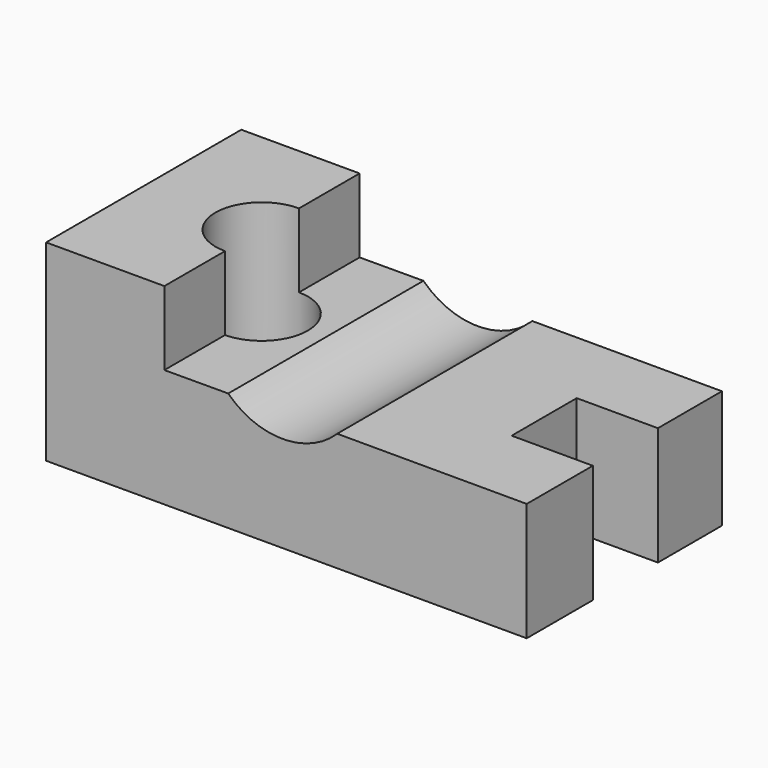
from build123d import *

# Parameters (mm, degrees)
F1_DEPTH = 330
F2_R     = 125
F2_W     = 220
F2_H     = 220
F3_DEPTH = 500


with BuildPart() as f1:
    # F0 (on Front) → F1 (new body, symmetric)
    with BuildSketch(Plane.XZ):
        with BuildLine():
            Line((-650, -160), (650, -160))
            Line((650, -160), (650, 160))
            Line((650, 160), (137.357155, 160.380921))
            ThreePointArc((137.357155, 160.380921), (-10, 100), (-157.357155, 160.380921))
            Line((-157.357155, 160.380921), (-330, 160))
            Line((-330, 160), (-330, 360))
            Line((-330, 360), (-650, 360))
            Line((-650, 360), (-650, -160))
        make_face()
    extrude(amount=F1_DEPTH, both=True)

    # F2 (on Top) → F3 (cut, symmetric)
    with BuildSketch(Plane.XY):
        with Locations((-330.868453, 0)):
            Circle(F2_R)
        with Locations((540.387497, 3.56755)):
            Rectangle(F2_W, F2_H)
    extrude(amount=F3_DEPTH, both=True, mode=Mode.SUBTRACT)


solid = f1.part
